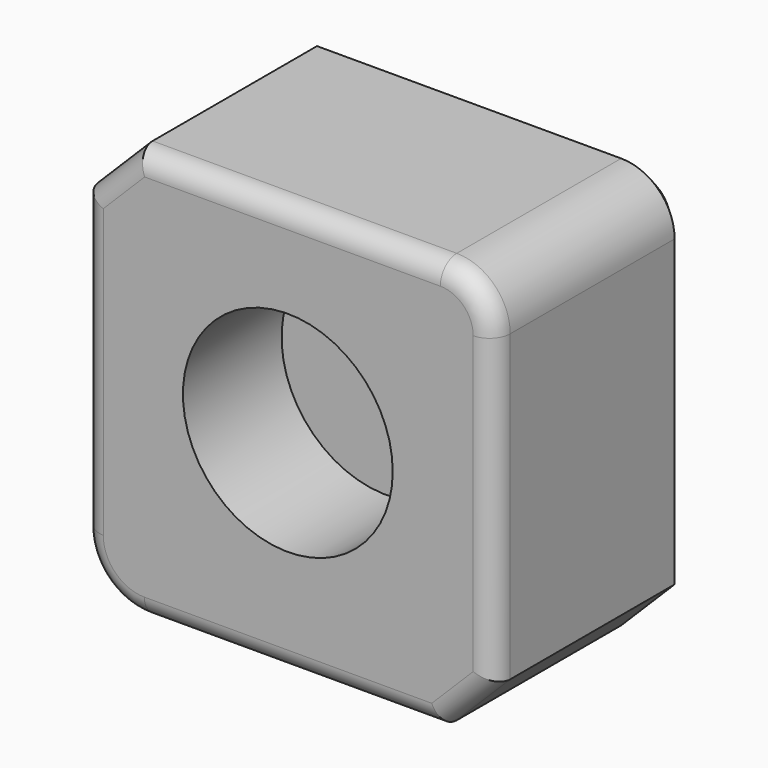
from build123d import *

# Parameters (mm, degrees)
F1_DEPTH = 60
F2_R     = 5
F3_SIZE  = 5
F4_R     = 25.516517
F5_DEPTH = 30


with BuildPart() as f1:
    # F0 (on Front) → F1 (new body)
    with BuildSketch(Plane.XZ):
        with BuildLine():
            Line((40.062132, 48.475344), (-33.937868, 48.475344))
            Line((-33.937868, 48.475344), (-46.937868, 35.475344))
            Line((-46.937868, 35.475344), (-46.937868, -36.524656))
            ThreePointArc((-46.937868, -36.524656), (-42.544469, -47.131258), (-31.937868, -51.524656))
            Line((-31.937868, -51.524656), (40.062132, -51.524656))
            Line((40.062132, -51.524656), (53.062132, -38.524656))
            Line((53.062132, -38.524656), (53.062132, 35.475344))
            ThreePointArc((53.062132, 35.475344), (49.25452, 44.667732), (40.062132, 48.475344))
        make_face()
    extrude(amount=F1_DEPTH)

    # F2
    f2_edges = [f1.edges().sort_by_distance(p)[0] for p in [
        (3.062132, -60, 48.475344),
        (-40.437868, -60, 41.975344),
        (-46.937868, -60, -0.524656),
        (-42.544469, -60, -47.131258),
        (4.062132, -60, -51.524656),
        (46.562132, -60, -45.024656),
        (53.062132, -60, -1.524656),
        (49.25452, -60, 44.667732),
    ]]
    fillet(f2_edges, radius=F2_R)

    # F3
    f3_edges = [f1.edges().sort_by_distance(p)[0] for p in [
        (3.062132, 0, 48.475344),
        (-40.437868, 0, 41.975344),
        (-46.937868, 0, -0.524656),
        (-42.544469, 0, -47.131258),
        (4.062132, 0, -51.524656),
        (46.562132, 0, -45.024656),
        (53.062132, 0, -1.524656),
        (49.25452, 0, 44.667732),
    ]]
    chamfer(f3_edges, length=F3_SIZE)

    # F4 (on face) → F5 (cut)
    with BuildSketch(Plane.XZ.offset(60)):
        with Locations((2.964985, 0)):
            Circle(F4_R)
    extrude(amount=-F5_DEPTH, mode=Mode.SUBTRACT)


solid = f1.part
